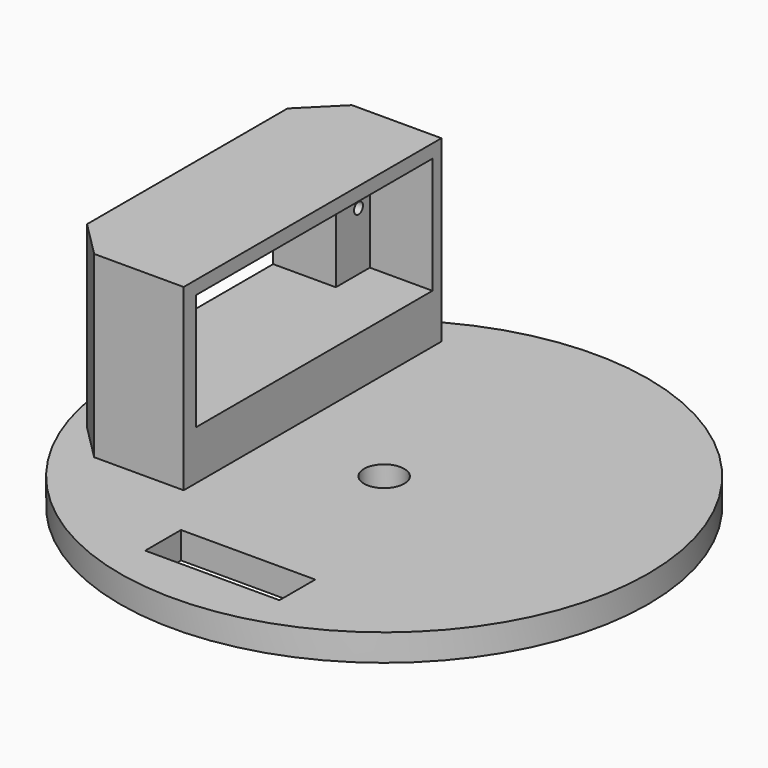
from build123d import *

# Parameters (mm, degrees)
SKETCH046_R     = 29.5
PAD016_DEPTH    = 3
SKETCH047_R     = 2.25
POCKET027_DEPTH = 3
SKETCH048_W     = 15
SKETCH048_H     = 5
POCKET028_DEPTH = 5
SKETCH050_W     = 14
SKETCH050_H     = 36
PAD017_DEPTH    = 20
SKETCH051_W     = 24
SKETCH051_H     = 13
POCKET030_DEPTH = 14
SKETCH052_W     = 33
SKETCH052_H     = 13
POCKET031_DEPTH = 7
SKETCH053_R     = 0.625
POCKET032_DEPTH = 5
CHAMFER001_SIZE = 4


with BuildPart() as part:
    # Sketch046 → Pad016 (new body)
    with BuildSketch(Plane.XY):
        with Locations((0, -11)):
            Circle(SKETCH046_R)
    extrude(amount=PAD016_DEPTH)

    # Sketch047 (on Face2 of Pad016) → Pocket027 (cut)
    with BuildSketch(Plane(origin=(0, 0, 0), x_dir=(1, 0, 0), z_dir=(0, 0, -1))):
        with Locations((0, 11)):
            Circle(SKETCH047_R)
    extrude(amount=-POCKET027_DEPTH, mode=Mode.SUBTRACT)

    # Sketch048 (on Face3 of Pocket027) → Pocket028 (cut)
    with BuildSketch(Plane.XY.offset(3)):
        with Locations((0, -32.5)):
            Rectangle(SKETCH048_W, SKETCH048_H)
    extrude(amount=-POCKET028_DEPTH, mode=Mode.SUBTRACT)

    # Sketch050 (on Face3 of Pocket028) → Pad017 (join)
    with BuildSketch(Plane.XY.offset(3)):
        with Locations((-19, -6)):
            Rectangle(SKETCH050_W, SKETCH050_H)
    extrude(amount=PAD017_DEPTH)

    # Sketch051 (on Face10 of Pad017) → Pocket030 (cut)
    with BuildSketch(Plane(origin=(-26, 0, 0), x_dir=(0, -1, 0), z_dir=(-1, 0, 0))):
        with Locations((6, 15)):
            Rectangle(SKETCH051_W, SKETCH051_H)
    extrude(amount=-POCKET030_DEPTH, mode=Mode.SUBTRACT)

    # Sketch052 (on Face12 of Pocket030) → Pocket031 (cut)
    with BuildSketch(Plane.YZ.offset(-12)):
        with Locations((-5.75, 15)):
            Rectangle(SKETCH052_W, SKETCH052_H)
    extrude(amount=-POCKET031_DEPTH, mode=Mode.SUBTRACT)

    # Sketch053 (on Face27 of Pocket031) → Pocket032 (cut)
    with BuildSketch(Plane.YZ.offset(-19)):
        with Locations((-20.831921, 15)):
            Circle(SKETCH053_R)
        with Locations((9.168079, 15)):
            Circle(SKETCH053_R)
    extrude(amount=-POCKET032_DEPTH, mode=Mode.SUBTRACT)

    # Chamfer001
    chamfer001_edges = [part.edges().sort_by_distance(p)[0] for p in [
        (-26, 12, 13),
        (-26, -24, 13),
    ]]
    chamfer(chamfer001_edges, length=CHAMFER001_SIZE)


with BuildPart() as part_1:
    # Body003 placement: moved
    add(part.part.moved(Location((0, 0, 30))))


solid = part_1.part
